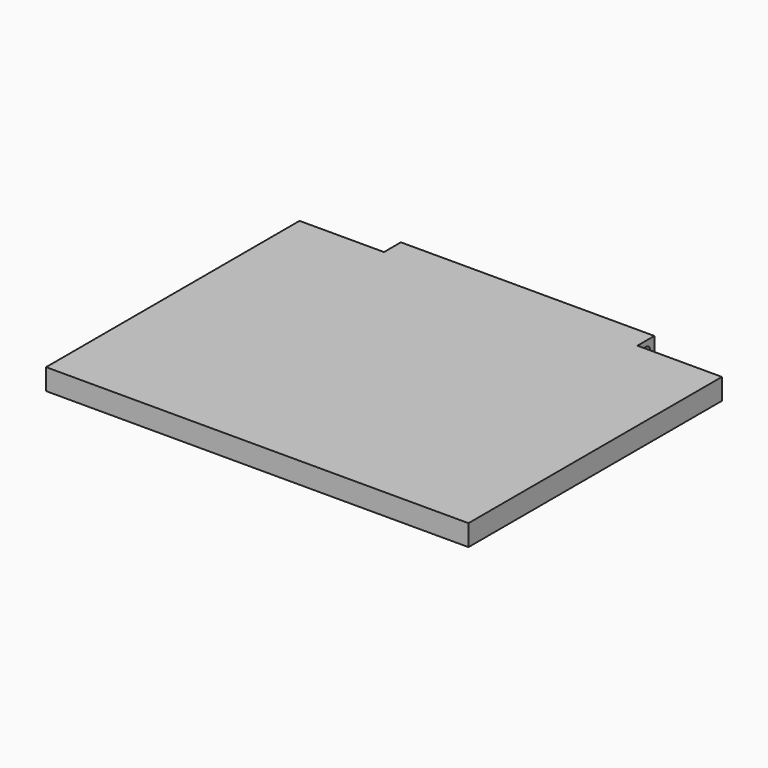
from build123d import *

# Parameters (mm, degrees)
F0_W     = 254
F0_H     = 203.2
F1_DEPTH = 12.7
F4_DEPTH = 254.001
F2_W     = 50.8
F2_H     = 12.7
F5_DEPTH = 12.701


with BuildPart() as f1:
    # F0 (on Top) → F1 (new body)
    with BuildSketch(Plane.XY):
        Rectangle(F0_W, F0_H)
    extrude(amount=F1_DEPTH)

    # F3 (on face) → F4 (cut, through all)
    with BuildSketch(Plane(origin=(-127, 0, 0), x_dir=(0, -1, 0), z_dir=(-1, 0, 0))):
        with BuildLine():
            ThreePointArc((-92.075, 6.35), (-95.25, 9.525), (-98.425, 6.35))
            Line((-98.425, 6.35), (-92.075, 6.35))
        make_face()
        with BuildLine():
            Line((-92.075, 6.35), (-98.425, 6.35))
            ThreePointArc((-98.425, 6.35), (-95.25, 3.175), (-92.075, 6.35))
        make_face()
    extrude(amount=-F4_DEPTH, mode=Mode.SUBTRACT)

    # F2 (on face) → F5 (cut, through all)
    with BuildSketch(Plane.XY.offset(12.7)):
        with Locations((-101.6, 95.25)):
            Rectangle(F2_W, F2_H)
        with Locations((101.6, 95.25)):
            Rectangle(F2_W, F2_H)
    extrude(amount=-F5_DEPTH, mode=Mode.SUBTRACT)


solid = f1.part
